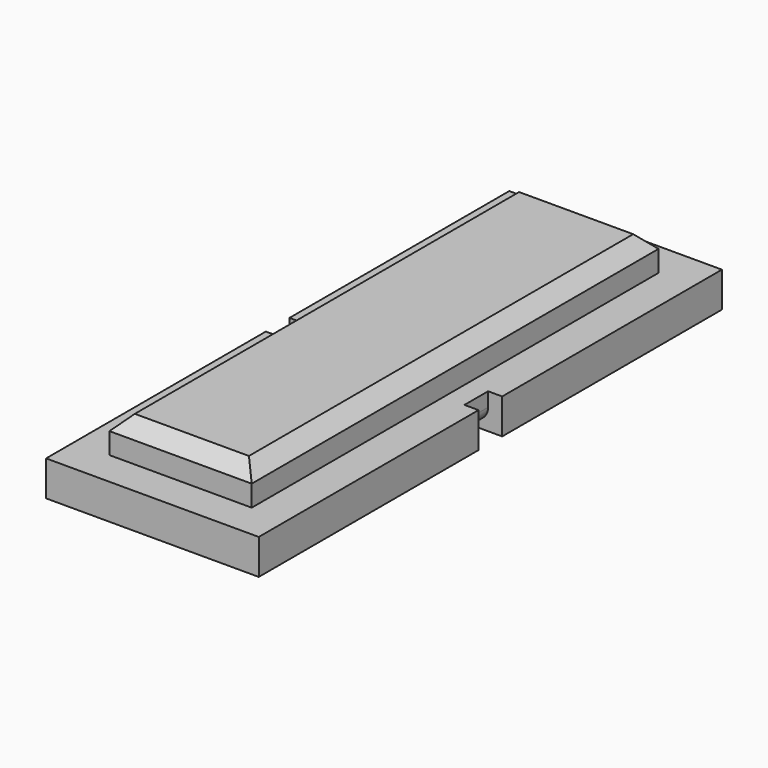
from build123d import *

# Parameters (mm, degrees)
F0_W     = 30.2
F0_H     = 82.2
F1_DEPTH = 5
F2_W     = 20.2
F2_H     = 72.2
F3_DEPTH = 5
F4_SIZE  = 2
F5_W     = 2
F5_H     = 4.2
F6_DEPTH = 5
F7_W     = 4.2
F7_H     = 1
F8_DEPTH = 28.2
F9_R     = 2


with BuildPart() as f1:
    # F0 (on Top) → F1 (new body)
    with BuildSketch(Plane.XY):
        with Locations((15.1, -41.1)):
            Rectangle(F0_W, F0_H)
    extrude(amount=F1_DEPTH)

    # F2 (on face) → F3 (join)
    with BuildSketch(Plane.XY.offset(5)):
        with Locations((15.1, -41.1)):
            Rectangle(F2_W, F2_H)
    extrude(amount=F3_DEPTH)

    # F4
    f4_edges = [f1.edges().sort_by_distance(p)[0] for p in [
        (15.1, -5, 10),
        (5, -41.1, 10),
        (15.1, -77.2, 10),
        (25.2, -41.1, 10),
    ]]
    chamfer(f4_edges, length=F4_SIZE)

    # F5 (on face) → F6 (cut, through all)
    with BuildSketch(Plane.XY.offset(5)):
        with Locations((1, -41.1)):
            Rectangle(F5_W, F5_H)
        with Locations((29.2, -41.1)):
            Rectangle(F5_W, F5_H)
    extrude(amount=-F6_DEPTH, mode=Mode.SUBTRACT)

    # F7 (on Right) → F8 (cut, through all)
    with BuildSketch(Plane.YZ):
        with Locations((-41.1, 0.5)):
            Rectangle(F7_W, F7_H)
    extrude(amount=F8_DEPTH, mode=Mode.SUBTRACT)

    # F9
    f9_edges = [f1.edges().sort_by_distance(p)[0] for p in [
        (2, -41.1, 1),
        (28.2, -41.1, 1),
    ]]
    fillet(f9_edges, radius=F9_R)


solid = f1.part
